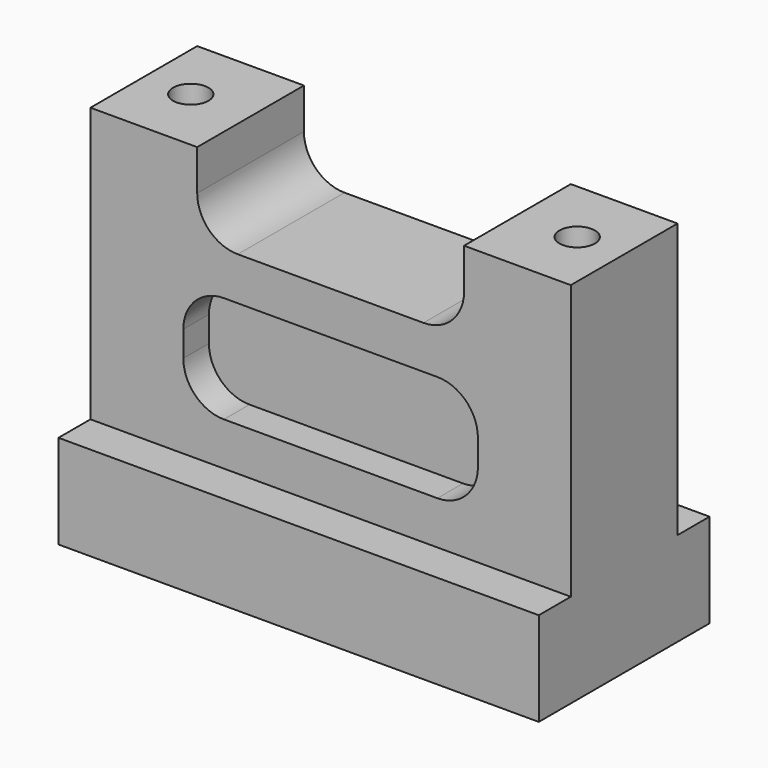
from build123d import *

# Parameters (mm, degrees)
F1_DEPTH  = 57.15
F3_DEPTH  = 25.4
F5_DEPTH  = 3.81
F7_DEPTH  = 3.81
F8_R      = 2.0828
F9_DEPTH  = 12.7
F8_R_2    = 2.1082
F10_DEPTH = 43.816
F8_R_3    = 3.556
F11_DEPTH = 9.652


with BuildPart() as f1:
    # F0 (on Right) → F1 (new body)
    with BuildSketch(Plane.YZ):
        Polygon((0, 11.176), (0, 0), (25.4, 0), (25.4, 11.176), (20.6375, 11.176), (20.6375, 43.815), (4.7625, 43.815), (4.7625, 11.176), align=None)
    extrude(amount=-F1_DEPTH)

    # F2 (on face) → F3 (cut)
    with BuildSketch(Plane.XZ.offset(-4.7625)):
        with BuildLine():
            Line((-12.7, 43.815), (-44.45, 43.815))
            Line((-44.45, 43.815), (-44.45, 38.989))
            ThreePointArc((-44.45, 38.989), (-43.036497, 35.576503), (-39.624, 34.163))
            Line((-39.624, 34.163), (-17.526, 34.163))
            ThreePointArc((-17.526, 34.163), (-14.113503, 35.576503), (-12.7, 38.989))
            Line((-12.7, 38.989), (-12.7, 43.815))
        make_face()
    extrude(amount=-F3_DEPTH, mode=Mode.SUBTRACT)

    # F4 (on face) → F5 (cut)
    with BuildSketch(Plane.XZ.offset(-4.7625)):
        with BuildLine():
            Line((-15.875, 29.0322), (-41.275, 29.0322))
            ThreePointArc((-41.275, 29.0322), (-44.687497, 27.618697), (-46.101, 24.2062))
            Line((-46.101, 24.2062), (-46.101, 21.1582))
            ThreePointArc((-46.101, 21.1582), (-44.687497, 17.745703), (-41.275, 16.3322))
            Line((-41.275, 16.3322), (-15.875, 16.3322))
            ThreePointArc((-15.875, 16.3322), (-12.462503, 17.745703), (-11.049, 21.1582))
            Line((-11.049, 21.1582), (-11.049, 24.2062))
            ThreePointArc((-11.049, 24.2062), (-12.462503, 27.618697), (-15.875, 29.0322))
        make_face()
    extrude(amount=-F5_DEPTH, mode=Mode.SUBTRACT)

    # F6 (on face) → F7 (cut)
    with BuildSketch(Plane(origin=(0, 20.6375, 0), x_dir=(-1, 0, 0), z_dir=(0, 1, 0))):
        with BuildLine():
            Line((41.275, 29.0322), (15.875, 29.0322))
            ThreePointArc((15.875, 29.0322), (12.462503, 27.618697), (11.049, 24.2062))
            Line((11.049, 24.2062), (11.049, 21.1582))
            ThreePointArc((11.049, 21.1582), (12.462503, 17.745703), (15.875, 16.3322))
            Line((15.875, 16.3322), (41.275, 16.3322))
            ThreePointArc((41.275, 16.3322), (44.687497, 17.745703), (46.101, 21.1582))
            Line((46.101, 21.1582), (46.101, 24.2062))
            ThreePointArc((46.101, 24.2062), (44.687497, 27.618697), (41.275, 29.0322))
        make_face()
    extrude(amount=-F7_DEPTH, mode=Mode.SUBTRACT)

    # F8 (on face) → F9 (cut)
    with BuildSketch(Plane(origin=(0, 0, 0), x_dir=(1, 0, 0), z_dir=(0, 0, -1))):
        with Locations((-44.45, -12.7)):
            Circle(F8_R)
        with Locations((-12.7, -12.7)):
            Circle(F8_R)
    extrude(amount=-F9_DEPTH, mode=Mode.SUBTRACT)

    # F8 (on face) → F10 (cut, through all)
    with BuildSketch(Plane(origin=(0, 0, 0), x_dir=(1, 0, 0), z_dir=(0, 0, -1))):
        with Locations((-51.562, -12.7)):
            Circle(F8_R_2)
        with Locations((-5.588, -12.7)):
            Circle(F8_R_2)
    extrude(amount=-F10_DEPTH, mode=Mode.SUBTRACT)

    # F8 (on face) → F11 (cut)
    with BuildSketch(Plane(origin=(0, 0, 0), x_dir=(1, 0, 0), z_dir=(0, 0, -1))):
        with Locations((-51.562, -12.7)):
            Circle(F8_R_3)
        with Locations((-51.562, -12.7)):
            Circle(F8_R_2, mode=Mode.SUBTRACT)
        with Locations((-5.588, -12.7)):
            Circle(F8_R_3)
        with Locations((-5.588, -12.7)):
            Circle(F8_R_2, mode=Mode.SUBTRACT)
    extrude(amount=-F11_DEPTH, mode=Mode.SUBTRACT)


solid = f1.part
